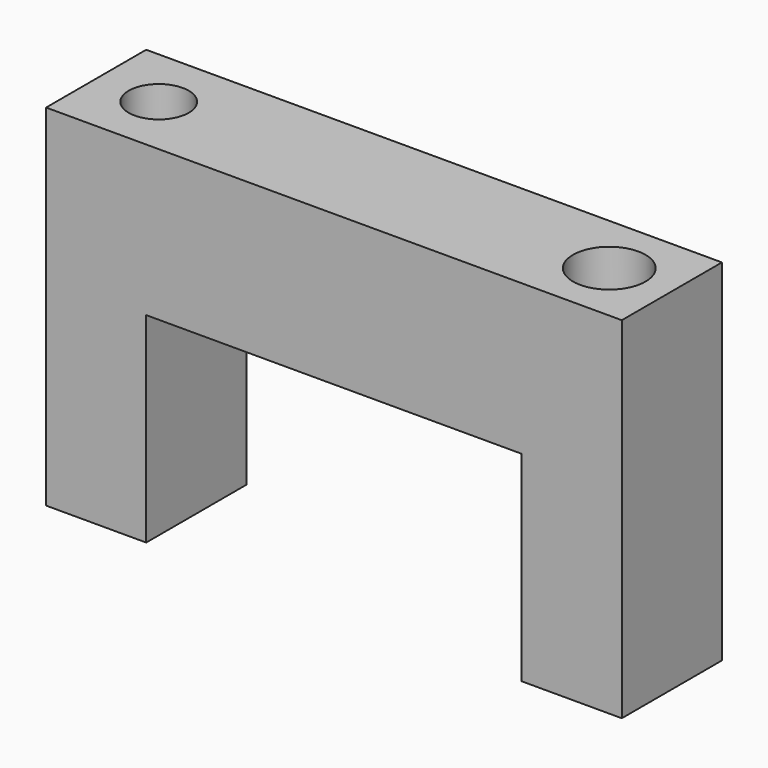
from build123d import *

# Parameters (mm, degrees)
F0_W     = 8
F0_H     = 16
F1_DEPTH = 10
F2_R     = 2.395941
F2_R_2   = 2.897802
F3_DEPTH = 10


with BuildPart() as f1:
    # F0 (on Front) → F1 (new body)
    with BuildSketch(Plane.XZ):
        Polygon((23, 6), (-23, 6), (-23, -6), (-15, -6), (15, -6), (23, -6), align=None)
        with Locations((-19, -14)):
            Rectangle(F0_W, F0_H)
        with Locations((19, -14)):
            Rectangle(F0_W, F0_H)
    extrude(amount=F1_DEPTH)

    # F2 (on face) → F3 (cut)
    with BuildSketch(Plane.XY.offset(6)):
        with Locations((-18, -5)):
            Circle(F2_R)
        with Locations((18, -5)):
            Circle(F2_R_2)
    extrude(amount=-F3_DEPTH, mode=Mode.SUBTRACT)


solid = f1.part
